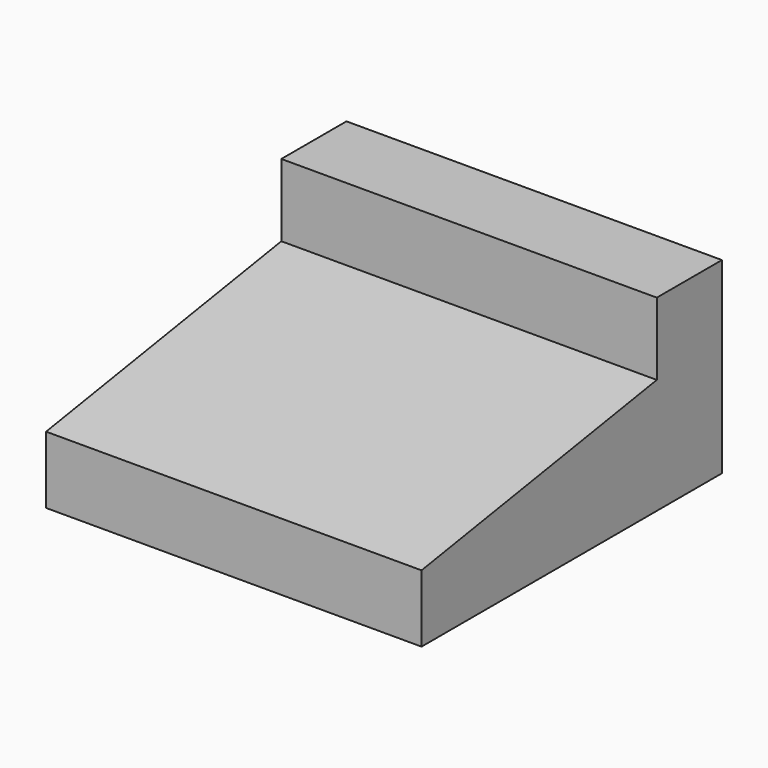
from build123d import *

# Parameters (mm, degrees)
F0_W     = 30
F0_H     = 30
F1_DEPTH = 15
F3_DEPTH = 30.001


with BuildPart() as f1:
    # F0 (on Top) → F1 (new body)
    with BuildSketch(Plane.XY):
        with Locations((22.209052, 12.426331)):
            Rectangle(F0_W, F0_H)
    extrude(amount=F1_DEPTH)

    # F2 (on face) → F3 (cut, through all)
    with BuildSketch(Plane(origin=(7.209052, 0, 0), x_dir=(0, -1, 0), z_dir=(-1, 0, 0))):
        Polygon((2.573669, 15), (-20.9211, 15), (-20.9211, 9.211753), (2.573669, 5.368679), align=None)
    extrude(amount=-F3_DEPTH, mode=Mode.SUBTRACT)


solid = f1.part
